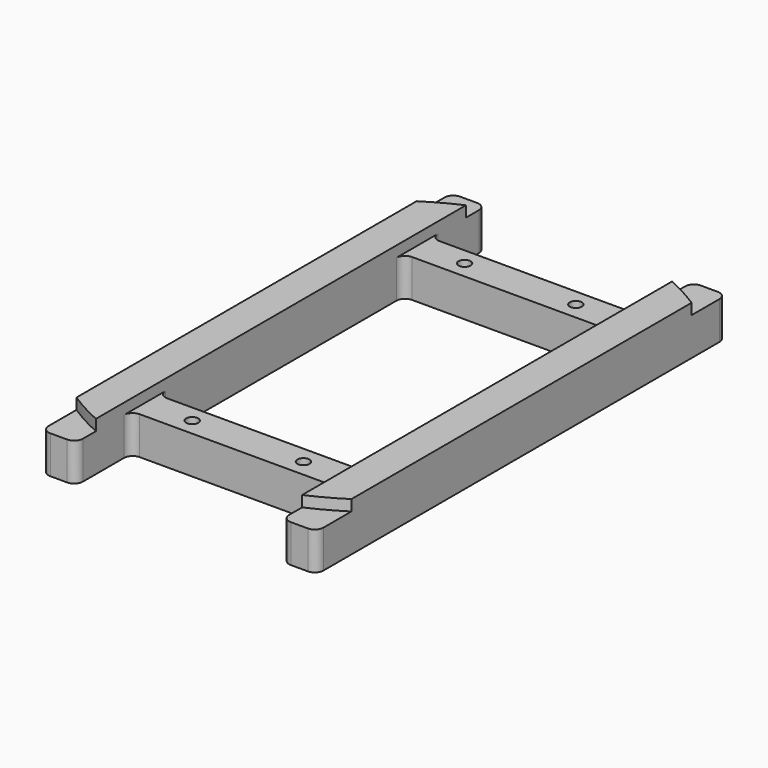
from build123d import *

# Parameters (mm, degrees)
F0_R     = 1.7526
F0_W     = 59.9948
F0_H     = 89.0524
F1_DEPTH = 10.9982
F3_DEPTH = 3.175
F4_R     = 2.54


with BuildPart() as f1:
    # F0 (on Top) → F1 (new body)
    with BuildSketch(Plane.XY):
        Polygon((29.9974, 54.5338), (-29.9974, 54.5338), (-29.9974, 74.549), (-40.005, 74.549), (-40.005, 54.5338), (-40.005, -54.5338), (-40.005, -74.549), (-29.9974, -74.549), (-29.9974, -54.5338), (29.9974, -54.5338), (29.9974, -74.549), (40.005, -74.549), (40.005, -54.5338), (40.005, 54.5338), (40.005, 74.549), (29.9974, 74.549), align=None)
        with Locations((-16.1798, -49.53)):
            Circle(F0_R, mode=Mode.SUBTRACT)
        with Locations((16.1798, -49.53)):
            Circle(F0_R, mode=Mode.SUBTRACT)
        with Locations((-16.1798, 49.53)):
            Circle(F0_R, mode=Mode.SUBTRACT)
        Rectangle(F0_W, F0_H, mode=Mode.SUBTRACT)
        with Locations((16.1798, 49.53)):
            Circle(F0_R, mode=Mode.SUBTRACT)
    extrude(amount=F1_DEPTH)

    # F2 (on face) → F3 (join)
    with BuildSketch(Plane.XY.offset(10.9982)):
        with BuildLine():
            ThreePointArc((-29.9974, 67.275193), (-35.106164, 64.756103), (-40.005, 61.849782))
            Line((-40.005, 61.849782), (-40.005, -61.849782))
            ThreePointArc((-40.005, -61.849782), (-35.106164, -64.756103), (-29.9974, -67.275193))
            Line((-29.9974, -67.275193), (-29.9974, -54.5338))
            Line((-29.9974, -54.5338), (-29.9974, -44.5262))
            Line((-29.9974, -44.5262), (-29.9974, 44.5262))
            Line((-29.9974, 44.5262), (-29.9974, 54.5338))
            Line((-29.9974, 54.5338), (-29.9974, 67.275193))
        make_face()
        with BuildLine():
            Line((29.9974, 67.275193), (29.9974, 54.5338))
            Line((29.9974, 54.5338), (29.9974, 44.5262))
            Line((29.9974, 44.5262), (29.9974, -44.5262))
            Line((29.9974, -44.5262), (29.9974, -54.5338))
            Line((29.9974, -54.5338), (29.9974, -67.275193))
            ThreePointArc((29.9974, -67.275193), (35.106164, -64.756103), (40.005, -61.849782))
            Line((40.005, -61.849782), (40.005, 61.849782))
            ThreePointArc((40.005, 61.849782), (35.106164, 64.756103), (29.9974, 67.275193))
        make_face()
    extrude(amount=F3_DEPTH)

    # F4
    f4_edges = [f1.edges().sort_by_distance(p)[0] for p in [
        (29.9974, 44.5262, 5.4991),
        (-29.9974, 44.5262, 5.4991),
        (29.9974, 54.5338, 5.4991),
        (-29.9974, 54.5338, 5.4991),
        (-29.9974, 74.549, 5.4991),
        (-40.005, 74.549, 5.4991),
        (29.9974, 74.549, 5.4991),
        (40.005, 74.549, 5.4991),
        (29.9974, -74.549, 5.4991),
        (40.005, -74.549, 5.4991),
        (-29.9974, -74.549, 5.4991),
        (-40.005, -74.549, 5.4991),
        (-29.9974, -54.5338, 5.4991),
        (29.9974, -54.5338, 5.4991),
        (29.9974, -44.5262, 5.4991),
        (-29.9974, -44.5262, 5.4991),
    ]]
    fillet(f4_edges, radius=F4_R)


solid = f1.part
